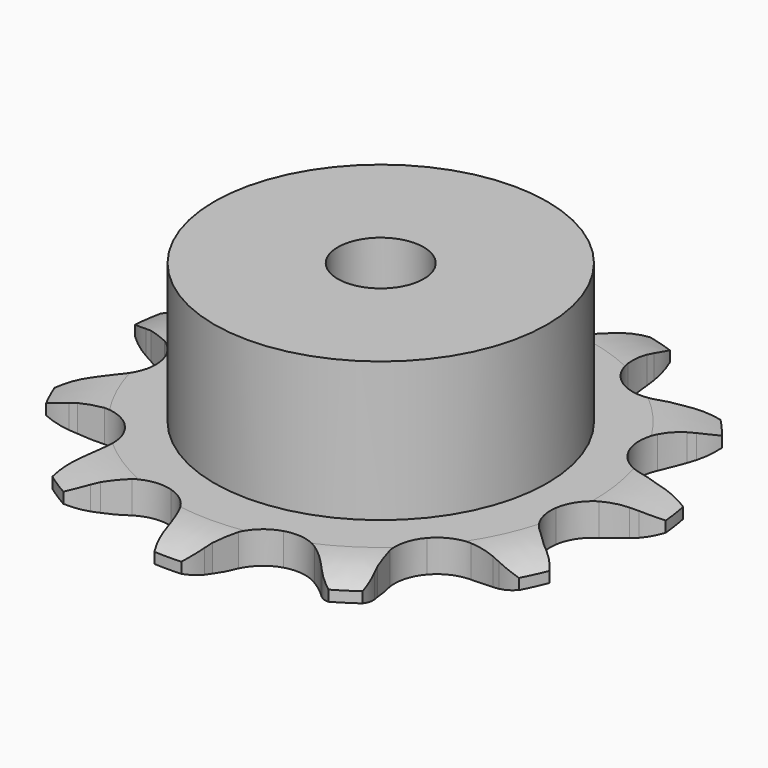
from build123d import *

# Parameters (mm, degrees)
PAD_DEPTH         = 3
SKETCH001_R       = 15.5
PAD001_DEPTH      = 16
SKETCH002_R       = 4
POCKET_DEPTH      = 0.001
POCKET_DEPTH_BACK = -16.001


with BuildPart() as part:
    # Sprocket → Pad (new body)
    with BuildSketch(Plane.XY):
        with BuildLine():
            ThreePointArc((-7.435559, 25.323187), (-5.79799, 24.139658), (-4.598673, 22.513615))
            Line((-4.598673, 22.513615), (-4.266191, 21.876158))
            ThreePointArc((-4.266191, 21.876158), (-3.682493, 20.895934), (-2.992303, 19.987541))
            ThreePointArc((-2.992303, 19.987541), (-1.647785, 18.968509), (0, 18.606631))
            ThreePointArc((0, 18.606631), (1.647785, 18.968509), (2.992303, 19.987541))
            ThreePointArc((2.992303, 19.987541), (3.682493, 20.895934), (4.266191, 21.876158))
            Line((4.266191, 21.876158), (4.598673, 22.513615))
            ThreePointArc((4.598673, 22.513615), (5.79799, 24.139658), (7.435559, 25.323187))
            ThreePointArc((7.435559, 25.323187), (8.173305, 23.442202), (8.303129, 21.425889))
            Line((8.303129, 21.425889), (8.238196, 20.709872))
            ThreePointArc((8.238196, 20.709872), (8.199285, 19.569684), (8.288795, 18.43235))
            ThreePointArc((8.288795, 18.43235), (8.868945, 16.848185), (10.059504, 15.652894))
            ThreePointArc((10.059504, 15.652894), (11.641356, 15.066465), (13.323366, 15.196829))
            Line((13.323366, 15.196829), (15.416092, 16.096918))
            ThreePointArc((15.416092, 16.096918), (15.725098, 16.280712), (16.040429, 16.453428))
            ThreePointArc((16.040429, 16.453428), (17.928464, 17.172942), (19.945939, 17.283254))
            ThreePointArc((19.945939, 17.283254), (19.549633, 15.302013), (18.568747, 13.535594))
            Line((18.568747, 13.535594), (18.127013, 12.968348))
            ThreePointArc((18.127013, 12.968348), (17.477848, 12.030198), (16.938259, 11.025019))
            ThreePointArc((16.938259, 11.025019), (16.569848, 9.378682), (16.925187, 7.729474))
            ThreePointArc((16.925187, 7.729474), (17.938878, 6.380925), (19.424354, 5.58123))
            Line((19.424354, 5.58123), (21.671493, 5.207021))
            ThreePointArc((21.671493, 5.207021), (22.030811, 5.194577), (22.389463, 5.169394))
            ThreePointArc((22.389463, 5.169394), (24.366777, 4.753939), (26.123624, 3.75601))
            ThreePointArc((26.123624, 3.75601), (24.719091, 2.303543), (22.938919, 1.347844))
            Line((22.938919, 1.347844), (22.260632, 1.109465))
            ThreePointArc((22.260632, 1.109465), (21.207317, 0.671209), (20.209946, 0.117322))
            ThreePointArc((20.209946, 0.117322), (19.009941, -1.068487), (18.417242, -2.648))
            ThreePointArc((18.417242, -2.648), (18.540933, -4.330514), (19.358248, -5.806369))
            Line((19.358248, -5.806369), (21.046348, -7.336069))
            ThreePointArc((21.046348, -7.336069), (21.341898, -7.5408), (21.63, -7.755887))
            ThreePointArc((21.63, -7.755887), (23.068811, -9.174406), (24.007244, -10.963741))
            ThreePointArc((24.007244, -10.963741), (22.040412, -11.426285), (20.026146, -11.267837))
            Line((20.026146, -11.267837), (19.326658, -11.101665))
            ThreePointArc((19.326658, -11.101665), (18.203613, -10.900885), (17.065117, -10.827624))
            ThreePointArc((17.065117, -10.827624), (15.414513, -11.176419), (14.061954, -12.184752))
            ThreePointArc((14.061954, -12.184752), (13.256373, -13.667045), (13.146034, -15.350487))
            Line((13.146034, -15.350487), (13.739136, -17.550008))
            ThreePointArc((13.739136, -17.550008), (13.877083, -17.882026), (14.003165, -18.218728))
            ThreePointArc((14.003165, -18.218728), (14.44666, -20.189942), (14.268733, -22.202581))
            ThreePointArc((14.268733, -22.202581), (12.364058, -21.528349), (10.755213, -20.30606))
            Line((10.755213, -20.30606), (10.256606, -19.788095))
            ThreePointArc((10.256606, -19.788095), (9.420391, -19.012024), (8.502234, -18.334876))
            ThreePointArc((8.502234, -18.334876), (6.925085, -17.735916), (5.242094, -17.852932))
            ThreePointArc((5.242094, -17.852932), (3.763008, -18.664386), (2.760048, -20.020934))
            Line((2.760048, -20.020934), (2.069846, -22.191944))
            ThreePointArc((2.069846, -22.191944), (2.006393, -22.545835), (1.930424, -22.897252))
            ThreePointArc((1.930424, -22.897252), (1.237797, -24.795314), (0, -26.392259))
            ThreePointArc((0, -26.392259), (-1.237797, -24.795314), (-1.930424, -22.897252))
            Line((-1.930424, -22.897252), (-2.069846, -22.191944))
            ThreePointArc((-2.069846, -22.191944), (-2.353739, -21.08698), (-2.760048, -20.020934))
            ThreePointArc((-2.760048, -20.020934), (-3.763008, -18.664386), (-5.242094, -17.852932))
            ThreePointArc((-5.242094, -17.852932), (-6.925085, -17.735916), (-8.502234, -18.334876))
            Line((-8.502234, -18.334876), (-10.256606, -19.788095))
            ThreePointArc((-10.256606, -19.788095), (-10.501314, -20.051501), (-10.755213, -20.30606))
            ThreePointArc((-10.755213, -20.30606), (-12.364058, -21.528349), (-14.268733, -22.202581))
            ThreePointArc((-14.268733, -22.202581), (-14.44666, -20.189942), (-14.003165, -18.218728))
            Line((-14.003165, -18.218728), (-13.739136, -17.550008))
            ThreePointArc((-13.739136, -17.550008), (-13.380574, -16.466969), (-13.146034, -15.350487))
            ThreePointArc((-13.146034, -15.350487), (-13.256373, -13.667045), (-14.061954, -12.184752))
            ThreePointArc((-14.061954, -12.184752), (-15.414513, -11.176419), (-17.065117, -10.827624))
            Line((-17.065117, -10.827624), (-19.326658, -11.101665))
            ThreePointArc((-19.326658, -11.101665), (-19.674927, -11.190957), (-20.026146, -11.267837))
            ThreePointArc((-20.026146, -11.267837), (-22.040412, -11.426285), (-24.007244, -10.963741))
            ThreePointArc((-24.007244, -10.963741), (-23.068811, -9.174406), (-21.63, -7.755887))
            Line((-21.63, -7.755887), (-21.046348, -7.336069))
            ThreePointArc((-21.046348, -7.336069), (-20.159171, -6.618812), (-19.358248, -5.806369))
            ThreePointArc((-19.358248, -5.806369), (-18.540933, -4.330514), (-18.417242, -2.648))
            ThreePointArc((-18.417242, -2.648), (-19.009941, -1.068487), (-20.209946, 0.117322))
            Line((-20.209946, 0.117322), (-22.260632, 1.109465))
            ThreePointArc((-22.260632, 1.109465), (-22.60189, 1.222637), (-22.938919, 1.347844))
            ThreePointArc((-22.938919, 1.347844), (-24.719091, 2.303543), (-26.123624, 3.75601))
            ThreePointArc((-26.123624, 3.75601), (-24.366777, 4.753939), (-22.389463, 5.169394))
            Line((-22.389463, 5.169394), (-21.671493, 5.207021))
            ThreePointArc((-21.671493, 5.207021), (-20.537373, 5.330772), (-19.424354, 5.58123))
            ThreePointArc((-19.424354, 5.58123), (-17.938878, 6.380925), (-16.925187, 7.729474))
            ThreePointArc((-16.925187, 7.729474), (-16.569848, 9.378682), (-16.938259, 11.025019))
            Line((-16.938259, 11.025019), (-18.127013, 12.968348))
            ThreePointArc((-18.127013, 12.968348), (-18.352913, 13.248052), (-18.568747, 13.535594))
            ThreePointArc((-18.568747, 13.535594), (-19.549633, 15.302013), (-19.945939, 17.283254))
            ThreePointArc((-19.945939, 17.283254), (-17.928464, 17.172942), (-16.040429, 16.453428))
            Line((-16.040429, 16.453428), (-15.416092, 16.096918))
            ThreePointArc((-15.416092, 16.096918), (-14.395105, 15.587873), (-13.323366, 15.196829))
            ThreePointArc((-13.323366, 15.196829), (-11.641356, 15.066465), (-10.059504, 15.652894))
            ThreePointArc((-10.059504, 15.652894), (-8.868945, 16.848185), (-8.288795, 18.43235))
            Line((-8.288795, 18.43235), (-8.238196, 20.709872))
            ThreePointArc((-8.238196, 20.709872), (-8.277015, 21.067304), (-8.303129, 21.425889))
            ThreePointArc((-8.303129, 21.425889), (-8.173305, 23.442202), (-7.435559, 25.323187))
        make_face()
    extrude(amount=PAD_DEPTH)

    # Sketch → Groove (revolve, cut)
    with BuildSketch(Plane.XZ):
        with BuildLine():
            Line((19.8, 0), (24.8, 0))
            Line((29.8, 0), (24.8, 0))
            Line((29.8, 3), (29.8, 0))
            Line((24.8, 3), (29.8, 3))
            Line((19.8, 3), (24.8, 3))
            ThreePointArc((24.8, 2), (22.34951, 2.747549), (19.8, 3))
            Line((24.8, 1), (24.8, 2))
            ThreePointArc((19.8, 0), (22.34951, 0.252451), (24.8, 1))
        make_face()
    revolve(axis=Axis((0, 0, 0), (0, 0, 1)), mode=Mode.SUBTRACT)

    # Sketch001 → Pad001 (join)
    with BuildSketch(Plane.XY):
        Circle(SKETCH001_R)
    extrude(amount=PAD001_DEPTH)

    # Sketch002 → Pocket (cut, two sides)
    with BuildSketch(Plane.XY) as pocket_sk:
        Circle(SKETCH002_R)
    extrude(amount=-POCKET_DEPTH, mode=Mode.SUBTRACT)
    extrude(pocket_sk.sketch, amount=-POCKET_DEPTH_BACK, mode=Mode.SUBTRACT)


solid = part.part
